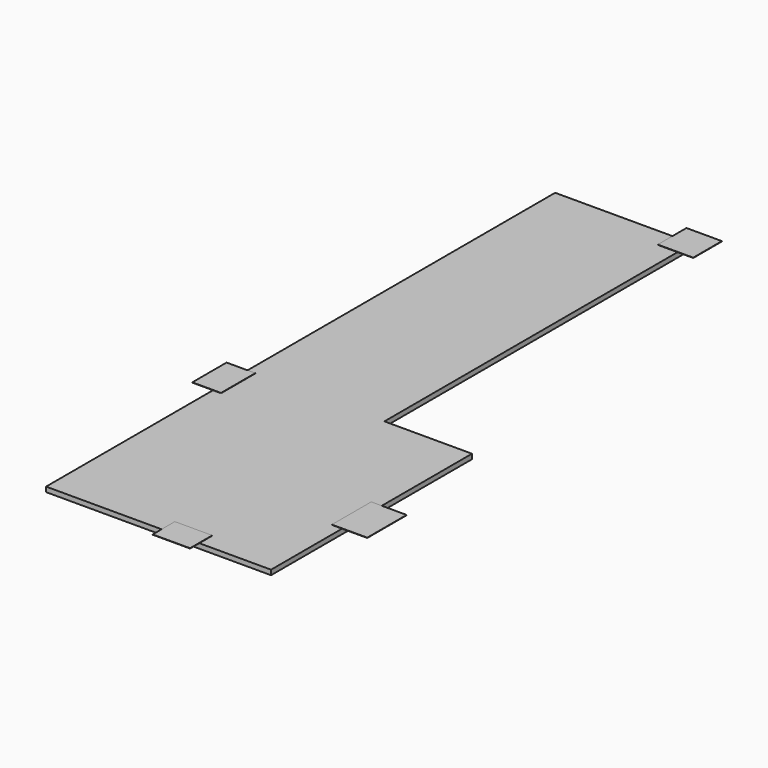
from build123d import *

# Parameters (mm, degrees)
F1_W     = 194.2608356476
F1_H     = 144.1197395325
F2_DEPTH = 1.524
F1_W_2   = 184.4062316895
F1_H_2   = 186.3207695007
F3_W     = 149.2831367493
F3_H     = 222.6326616287
F4_DEPTH = 1.524
F5_W     = 183.84650383
F5_H     = 255.9131835098
F6_DEPTH = 1.524
F7_W     = 455.2961587906
F7_H     = 1305.9402406216
F8_DEPTH = 25.4


with BuildPart() as f2:
    # F1 (on Top) → F2 (new body)
    with BuildSketch(Plane.XY):
        with Locations((-1947.4688768387, -1793.7077283859)):
            Rectangle(F1_W, F1_H)
    extrude(amount=F2_DEPTH)



with BuildPart() as f2b:
    # F1 (on Top) → F2, piece 2 (new body)
    with BuildSketch(Plane.XY):
        with Locations((-1943.1, 1498.6)):
            Rectangle(F1_W_2, F1_H_2)
    extrude(amount=F2_DEPTH)


with BuildPart() as f4:
    # F3 (on Top) → F4 (new body)
    with BuildSketch(Plane.XY):
        with Locations((-2679.7, -609.6)):
            Rectangle(F3_W, F3_H)
    extrude(amount=F4_DEPTH)


with BuildPart() as f6:
    # F5 (on Top) → F6 (new body)
    with BuildSketch(Plane.XY):
        with Locations((-1438.426748085, -1215.8304082451)):
            Rectangle(F5_W, F5_H)
    extrude(amount=F6_DEPTH)


with BuildPart() as f2_1:
    add(f2.part)

    add(f2b.part)  # F8 merges F2b

    add(f4.part)  # F8 merges F4

    add(f6.part)  # F8 merges F6
    # F7 (on face) → F8 (join)
    with BuildSketch(Plane(origin=(0, 0, 0), x_dir=(1, 0, 0), z_dir=(0, 0, -1))):
        Polygon((-2647.0203399658, -1503.0001401901), (-1932.6788187027, -1503.0001401901), (-1932.6788187027, 499.576240778), (-1932.6788187027, 1805.5164813995), (-2647.0203399658, 1805.5164813995), align=None)
        with Locations((-1705.0307393074, 1152.5463610888)):
            Rectangle(F7_W, F7_H)
    extrude(amount=F8_DEPTH)


solid = f2_1.part
